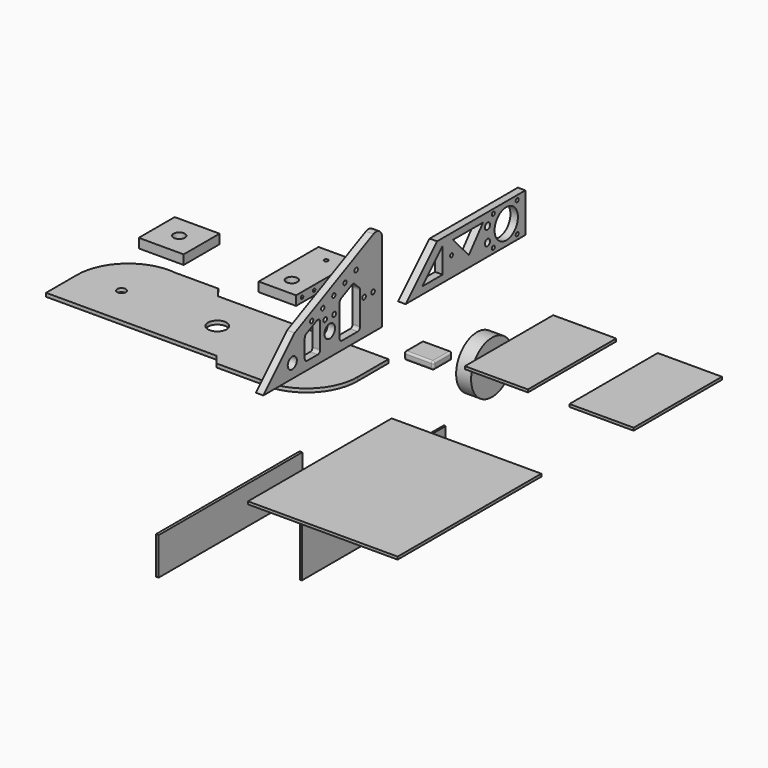
from build123d import *

# Parameters (mm, degrees)
F0_R      = 3.683
F0_R_2    = 7.874
F1_DEPTH  = 3.048
F2_W      = 38.1
F2_H      = 38.1
F2_R      = 4.7625
F3_DEPTH  = 7.9375
F4_R      = 4.8350170255
F4_R_2    = 5.6121955222
F4_R_3    = 1.905
F5_DEPTH  = 6.35
F6_W      = 31.75
F6_H      = 63.5
F6_R      = 4.7625
F6_R_2    = 1.6511353673
F7_DEPTH  = 7.9375
F8_R      = 1.2920108789
F9_DEPTH  = 6.35
F10_R     = 1.3589
F11_DEPTH = 6.35
F12_R     = 1.778
F13_DEPTH = 236.6233487447
F14_R     = 14
F15_DEPTH = 6.096
F16_W     = 25
F16_H     = 6.5
F17_DEPTH = 20
F18_R     = 1.651
F19_R     = 1.5875
F19_R_2   = 2.769911581
F19_R_3   = 12.3790889986
F20_DEPTH = 6.35
F21_R     = 22.225
F21_R_2   = 5.715
F22_DEPTH = 12.7
F23_W     = 152.4
F23_H     = 31.75
F24_DEPTH = 2.286
F25_W     = 127
F25_H     = 152.4
F26_DEPTH = 2.286
F27_W     = 53.47716
F27_H     = 93.6244
F28_DEPTH = 2.286
F29_W     = 54.49316
F29_H     = 93.6244
F30_DEPTH = 2.286
F31_W     = 152.4
F31_H     = 53.34
F32_DEPTH = 1.6002


with BuildPart() as f1:
    # F0 (on Top) → F1 (new body)
    with BuildSketch(Plane.XY):
        with BuildLine():
            Line((-42.3123487447, -8.636), (-85.4923487447, -8.636))
            Line((-85.4923487447, -8.636), (-138.3243487447, -8.636))
            Line((-138.3243487447, -8.636), (-144.9283487447, 0))
            Line((-144.9283487447, 0), (-181.5043487447, 0))
            ThreePointArc((-181.5043487447, 0), (-215.5895253943, -10.4415448714), (-230.2723487447, -42.926))
            Line((-230.2723487447, -42.926), (-230.2723487447, -75.946))
            Line((-230.2723487447, -75.946), (-181.5043487447, -75.946))
            Line((-181.5043487447, -75.946), (-138.3243487447, -75.946))
            Line((-138.3243487447, -75.946), (-85.4923487447, -75.946))
            Line((-85.4923487447, -75.946), (-78.8883487447, -84.582))
            Line((-78.8883487447, -84.582), (-42.3123487447, -84.582))
            ThreePointArc((-42.3123487447, -84.582), (-8.227172095, -74.1404551286), (6.4556512553, -41.656))
            Line((6.4556512553, -41.656), (6.4556512553, -8.636))
            Line((6.4556512553, -8.636), (-42.3123487447, -8.636))
        make_face()
        with Locations((-193.1883487447, -42.291)):
            Circle(F0_R, mode=Mode.SUBTRACT)
        with Locations((-111.9083487447, -42.291)):
            Circle(F0_R_2, mode=Mode.SUBTRACT)
        with Locations((-30.6283487447, -42.291)):
            Circle(F0_R, mode=Mode.SUBTRACT)
    extrude(amount=F1_DEPTH)


with BuildPart() as f3:
    # F2 (on Top) → F3 (new body)
    with BuildSketch(Plane.XY):
        with Locations((-206.6803148508, 35.7390118271)):
            Rectangle(F2_W, F2_H)
        with Locations((-206.6803148508, 35.7390118271)):
            Circle(F2_R, mode=Mode.SUBTRACT)
    extrude(amount=F3_DEPTH)


with BuildPart() as f5:
    # F4 (on Right) → F5 (new body)
    with BuildSketch(Plane.YZ):
        with BuildLine():
            Line((-24.4961446953, 102.9456967572), (-108.0764387698, 63.0375636578))
            Line((-108.0764387698, 63.0375636578), (-141.2813422183, 29.8326602092))
            Line((-141.2813422183, 29.8326602092), (-106.3312946916, 29.8326602092))
            Line((-106.3312946916, 29.8326602092), (-15.4100325224, 29.8326602092))
            Line((-15.4100325224, 29.8326602092), (-15.4100325224, 97.2154096634))
            ThreePointArc((-15.4100325224, 97.2154096634), (-18.3726893377, 102.5864808926), (-24.4961446953, 102.9456967572))
        make_face()
        with Locations((-110.5702221394, 41.6413135827)):
            Circle(F4_R, mode=Mode.SUBTRACT)
        with BuildLine():
            Line((-97.3512220437, 39.4233072265), (-97.3512220437, 54.9754053313))
            ThreePointArc((-97.3512220437, 54.9754053313), (-96.9596505354, 56.3303426052), (-95.9056669129, 57.2675201688))
            Line((-95.9056669129, 57.2675201688), (-84.6456538487, 62.6439800754))
            ThreePointArc((-84.6456538487, 62.6439800754), (-82.1962717057, 62.5002937295), (-81.0112089795, 60.3518652379))
            Line((-81.0112089795, 60.3518652379), (-81.0112089795, 39.4233072265))
            ThreePointArc((-81.0112089795, 39.4233072265), (-81.7551577553, 37.6272560023), (-83.5512089795, 36.8833072265))
            Line((-83.5512089795, 36.8833072265), (-94.8112220437, 36.8833072265))
            ThreePointArc((-94.8112220437, 36.8833072265), (-96.607273268, 37.6272560023), (-97.3512220437, 39.4233072265))
        make_face(mode=Mode.SUBTRACT)
        with Locations((-70.8756297827, 49.2961853743)):
            Circle(F4_R_2, mode=Mode.SUBTRACT)
        with BuildLine():
            Line((-60.3156236645, 39.4233072265), (-60.3156236645, 66.4783076246))
            ThreePointArc((-60.3156236645, 66.4783076246), (-59.9240521562, 67.8332448984), (-58.8700685337, 68.7704224621))
            Line((-58.8700685337, 68.7704224621), (-47.321172453, 74.2848189719))
            ThreePointArc((-47.321172453, 74.2848189719), (-45.8071030069, 74.4978019797), (-44.4450865288, 73.803050828))
            Line((-44.4450865288, 73.803050828), (-39.3883836068, 68.8265291703))
            ThreePointArc((-39.3883836068, 68.8265291703), (-38.8272732581, 67.9975671414), (-38.6300246619, 67.0161824767))
            Line((-38.6300246619, 67.0161824767), (-38.6300246619, 39.4233072265))
            ThreePointArc((-38.6300246619, 39.4233072265), (-39.3739734376, 37.6272560023), (-41.1700246619, 36.8833072265))
            Line((-41.1700246619, 36.8833072265), (-57.7756236645, 36.8833072265))
            ThreePointArc((-57.7756236645, 36.8833072265), (-59.5716748887, 37.6272560023), (-60.3156236645, 39.4233072265))
        make_face(mode=Mode.SUBTRACT)
        with Locations((-75.6793171167, 59.8625636578)):
            Circle(F4_R_3, mode=Mode.SUBTRACT)
        with Locations((-66.1543171167, 59.8625636578)):
            Circle(F4_R_3, mode=Mode.SUBTRACT)
        with Locations((-34.435126406, 59.8625636578)):
            Circle(F4_R_3, mode=Mode.SUBTRACT)
        with Locations((-24.910126406, 59.8625636578)):
            Circle(F4_R_3, mode=Mode.SUBTRACT)
    extrude(amount=F5_DEPTH)

    # F12 (on face) → F13 (cut, through all)
    with BuildSketch(Plane.YZ.offset(6.35)):
        with Locations((-42.8303554654, 83.4318250418)):
            Circle(F12_R)
        with Locations((-54.6356171094, 78.7493259742)):
            Circle(F12_R)
        with Locations((-66.4408787534, 74.0668269067)):
            Circle(F12_R)
        with Locations((-78.2461403973, 69.3843278392)):
            Circle(F12_R)
        with Locations((-90.0514020413, 64.7018287717)):
            Circle(F12_R)
    extrude(amount=-F13_DEPTH, mode=Mode.SUBTRACT)


with BuildPart() as f7:
    # F6 (on Top) → F7 (new body)
    with BuildSketch(Plane.XY):
        with Locations((-108.6346623898, 49.076420173)):
            Rectangle(F6_W, F6_H)
        with Locations((-108.6346623898, 32.6987877488)):
            Circle(F6_R, mode=Mode.SUBTRACT)
        with Locations((-108.6346623898, 69.0207877488)):
            Circle(F6_R_2, mode=Mode.SUBTRACT)
    extrude(amount=F7_DEPTH)

    # F8 (on face) → F9 (cut)
    with BuildSketch(Plane.YZ.offset(-92.7596623898)):
        with Locations((23.7531028688, 3.96875)):
            Circle(F8_R)
        with Locations((36.4531028688, 3.96875)):
            Circle(F8_R)
        with Locations((49.1531028688, 3.96875)):
            Circle(F8_R)
        with Locations((61.8531028688, 3.96875)):
            Circle(F8_R)
        with Locations((74.5531028688, 3.96875)):
            Circle(F8_R)
    extrude(amount=-F9_DEPTH, mode=Mode.SUBTRACT)

    # F10 (on face) → F11 (cut)
    with BuildSketch(Plane(origin=(-124.5096623898, 0, 0), x_dir=(0, -1, 0), z_dir=(-1, 0, 0))):
        with Locations((-23.1072045863, 3.96875)):
            Circle(F10_R)
        with Locations((-35.8072045863, 3.96875)):
            Circle(F10_R)
        with Locations((-48.5072045863, 3.96875)):
            Circle(F10_R)
        with Locations((-61.2072045863, 3.96875)):
            Circle(F10_R)
        with Locations((-73.9072045863, 3.96875)):
            Circle(F10_R)
    extrude(amount=-F11_DEPTH, mode=Mode.SUBTRACT)

    # F14 (on face) → F15 (cut)
    with BuildSketch(Plane(origin=(0, 0, 0), x_dir=(1, 0, 0), z_dir=(0, 0, -1))):
        with Locations((-108.6346623898, -69.0207877488)):
            Circle(F14_R)
    extrude(amount=-F15_DEPTH, mode=Mode.SUBTRACT)


with BuildPart() as f17:
    # F16 (on Front) → F17 (new body)
    with BuildSketch(Plane.XZ):
        with Locations((41.1435745656, 17.6079775468)):
            Rectangle(F16_W, F16_H)
    extrude(amount=F17_DEPTH)

    # F18
    f18_edges = [f17.edges().sort_by_distance(p)[0] for p in [
        (53.643575, -10, 20.857978),
        (53.643575, -10, 14.357978),
        (53.643575, -20, 17.607978),
        (53.643575, 0, 17.607978),
        (41.143575, -20, 20.857978),
        (41.143575, -20, 14.357978),
        (41.143575, 0, 20.857978),
        (41.143575, 0, 14.357978),
        (28.643575, -10, 20.857978),
        (28.643575, 0, 17.607978),
        (28.643575, -10, 14.357978),
        (28.643575, -20, 17.607978),
    ]]
    fillet(f18_edges, radius=F18_R)


with BuildPart() as f20:
    # F19 (on Right) → F20 (new body)
    with BuildSketch(Plane.YZ):
        Polygon((136.6286972985, 36.7115281424), (136.6286972985, 70.0871281424), (43.0042972985, 70.0871281424), (9.6286972985, 36.7115281424), align=None)
        with Locations((102.6349812746, 40.9018152118)):
            Circle(F19_R, mode=Mode.SUBTRACT)
        with Locations((128.0349812746, 40.9018152118)):
            Circle(F19_R, mode=Mode.SUBTRACT)
        with Locations((96.4617356658, 47.4678759294)):
            Circle(F19_R_2, mode=Mode.SUBTRACT)
        Polygon((27.3327715839, 42.8100638236), (48.8446950912, 64.3219873309), (48.8446950912, 42.8100638236), align=None, mode=Mode.SUBTRACT)
        with Locations((58.2995042205, 53.3993281424)):
            Circle(F19_R, mode=Mode.SUBTRACT)
        Polygon((91.7950908, 64.3219873309), (76.7136216164, 46.0794307292), (59.8426870546, 64.3219873309), align=None, mode=Mode.SUBTRACT)
        with Locations((96.4617356658, 59.6598759294)):
            Circle(F19_R_2, mode=Mode.SUBTRACT)
        with Locations((116.3938641548, 53.3993281424)):
            Circle(F19_R_3, mode=Mode.SUBTRACT)
        with Locations((102.6349812746, 66.3018152118)):
            Circle(F19_R, mode=Mode.SUBTRACT)
        with Locations((128.0349812746, 66.3018152118)):
            Circle(F19_R, mode=Mode.SUBTRACT)
    extrude(amount=F20_DEPTH)


with BuildPart() as f22:
    # F21 (on Right) → F22 (new body)
    with BuildSketch(Plane.YZ):
        with Locations((93.3859944344, -42.4580983818)):
            Circle(F21_R)
        with Locations((93.3859944344, -42.4580983818)):
            Circle(F21_R_2, mode=Mode.SUBTRACT)
    extrude(amount=F22_DEPTH)


with BuildPart() as f24:
    # F23 (on Right) → F24 (new body)
    with BuildSketch(Plane.YZ):
        with Locations((-171.1166659474, -48.650431022)):
            Rectangle(F23_W, F23_H)
    extrude(amount=F24_DEPTH)


with BuildPart() as f26:
    # F25 (on Top) → F26 (new body)
    with BuildSketch(Plane.XY):
        with Locations((123.7313469648, -148.7090075493)):
            Rectangle(F25_W, F25_H)
    extrude(amount=F26_DEPTH)


with BuildPart() as f28:
    # F27 (on Top) → F28 (new body)
    with BuildSketch(Plane.XY):
        with Locations((78.0389976319, 63.163044875)):
            Rectangle(F27_W, F27_H)
    extrude(amount=F28_DEPTH)


with BuildPart() as f30:
    # F29 (on Top) → F30 (new body)
    with BuildSketch(Plane.XY):
        with Locations((166.5376424789, 64.0549050193)):
            Rectangle(F29_W, F29_H)
    extrude(amount=F30_DEPTH)


with BuildPart() as f32:
    # F31 (on Right) → F32 (new body)
    with BuildSketch(Plane.YZ):
        with Locations((-18.1376868963, -102.2774368095)):
            Rectangle(F31_W, F31_H)
    extrude(amount=F32_DEPTH)


solid = Compound([f1.part, f3.part, f5.part, f7.part, f17.part, f20.part, f22.part, f24.part, f26.part, f28.part, f30.part, f32.part])
